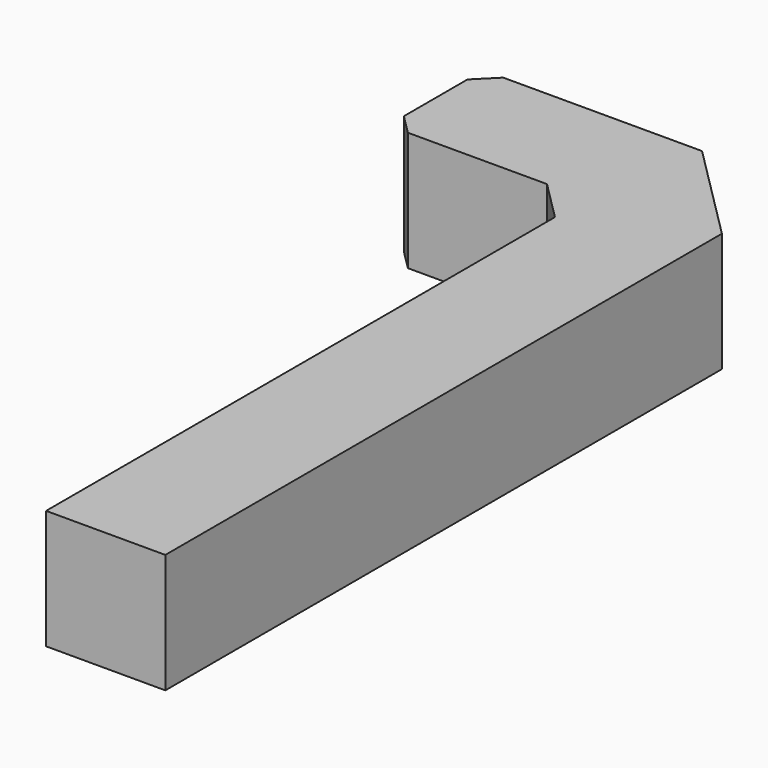
from build123d import *

# Parameters (mm, degrees)
F0_W     = 38.1
F0_H     = 215.9
F0_H_2   = 38.1
F0_W_2   = 63.5
F1_DEPTH = 38.1
F2_SIZE  = 12.7
F3_SIZE  = 31.75
F4_SIZE  = 6.35


with BuildPart() as f1:
    # F0 (on Top) → F1 (new body)
    with BuildSketch(Plane.XY):
        with Locations((0, -19.05)):
            Rectangle(F0_W, F0_H)
        with Locations((0, 107.95)):
            Rectangle(F0_W, F0_H_2)
        with Locations((-50.8, 107.95)):
            Rectangle(F0_W_2, F0_H_2)
    extrude(amount=F1_DEPTH)

    # F2
    f2_edges = [f1.edges().sort_by_distance(p)[0] for p in [
        (-19.05, 88.9, 19.05),
    ]]
    chamfer(f2_edges, length=F2_SIZE)

    # F3
    f3_edges = [f1.edges().sort_by_distance(p)[0] for p in [
        (19.05, 127, 19.05),
    ]]
    chamfer(f3_edges, length=F3_SIZE)

    # F4
    f4_edges = [f1.edges().sort_by_distance(p)[0] for p in [
        (-82.55, 88.9, 19.05),
        (-82.55, 127, 19.05),
    ]]
    chamfer(f4_edges, length=F4_SIZE)


solid = f1.part
